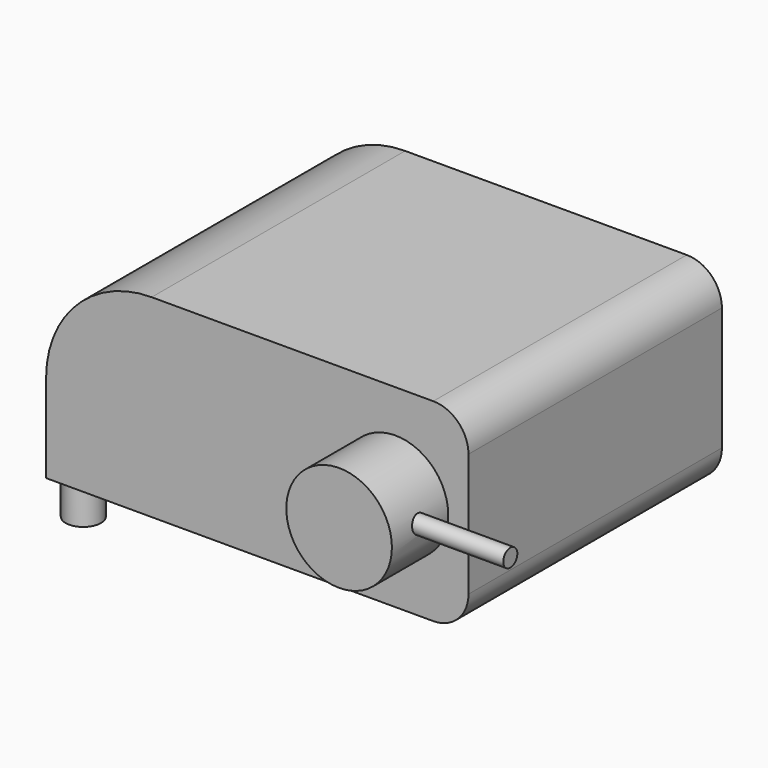
from build123d import *

# Parameters (mm, degrees)
F1_DEPTH  = 114.3
F2_R      = 19.05
F3_DEPTH  = 25.4
F4_R      = 6.35
F5_DEPTH  = 12.7
F6_R      = 3.175
F7_DEPTH  = 12.7
F7_FACE_R = 3.175
F8_DEPTH  = 25.4
F9_R      = 9.525
F10_DEPTH = 19.05


with BuildPart() as f1:
    # F0 (on Front) → F1 (new body)
    with BuildSketch(Plane.XZ):
        with BuildLine():
            Line((139.7, 0), (38.1, 0))
            ThreePointArc((38.1, 0), (11.159232, -11.159232), (0, -38.1))
            Line((0, -38.1), (0, -69.85))
            Line((0, -69.85), (139.7, -69.85))
            ThreePointArc((139.7, -69.85), (148.680256, -66.130256), (152.4, -57.15))
            Line((152.4, -57.15), (152.4, -12.7))
            ThreePointArc((152.4, -12.7), (148.680256, -3.719744), (139.7, 0))
        make_face()
    extrude(amount=F1_DEPTH)

    # F2 (on face) → F3 (join)
    with BuildSketch(Plane.XZ.offset(114.3)):
        with Locations((126.039833, -34.362618)):
            Circle(F2_R)
    extrude(amount=F3_DEPTH)

    # F4 (on face) → F5 (join)
    with BuildSketch(Plane(origin=(0, 0, -69.85), x_dir=(1, 0, 0), z_dir=(0, 0, -1))):
        with Locations((7.622689, 107.050315)):
            Circle(F4_R)
    extrude(amount=F5_DEPTH)

    # F6 (on face) → F7 (join)
    with BuildSketch(Plane.YZ.offset(152.4)):
        with Locations((-127.194032, -32.0675)):
            Circle(F6_R)
    extrude(amount=-F7_DEPTH)

    # F7_face (on face) → F8 (join)
    with BuildSketch(Plane(origin=(152.4, -127.194032, -32.0675), x_dir=(0, 1, 0), z_dir=(1, 0, 0))):
        Circle(F7_FACE_R)
    extrude(amount=F8_DEPTH)

    # F9 (on face) → F10 (join)
    with BuildSketch(Plane(origin=(0, 0, 0), x_dir=(-1, 0, 0), z_dir=(0, 1, 0))):
        with Locations((-118.092358, -32.808334)):
            Circle(F9_R)
        with Locations((-36.353748, -33.302221)):
            Circle(F9_R)
    extrude(amount=F10_DEPTH)


solid = f1.part
